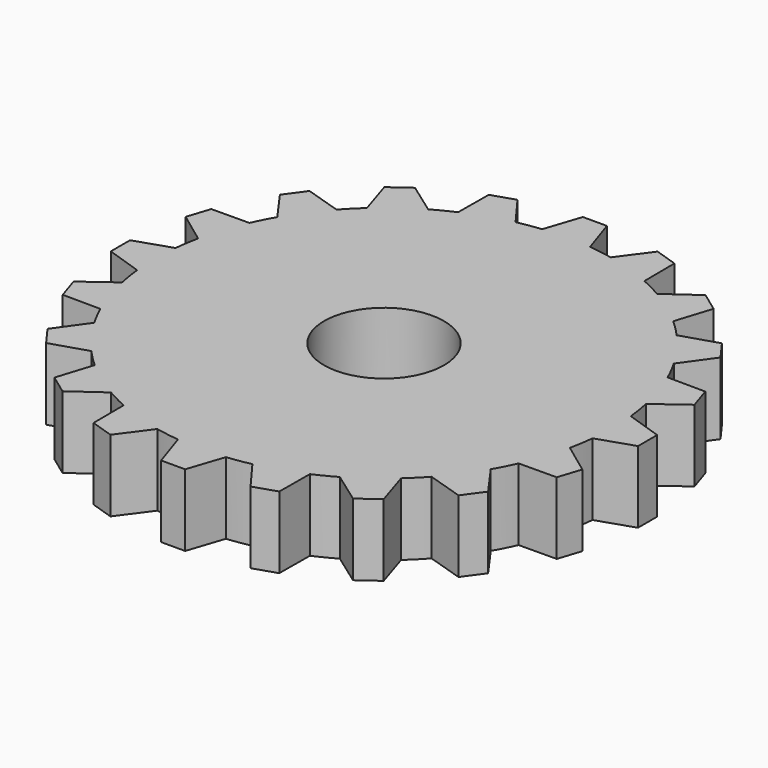
from build123d import *

# Parameters (mm, degrees)
F0_R     = 9.549297
F0_R_2   = 2.5
F2_DEPTH = 3
F3_COUNT = 20
F3_ANGLE = 342


with BuildPart() as f2:
    # F0 (on Top) + F1 (on face) → F2 (new body)
    with BuildSketch(Plane.XY):
        Circle(F0_R)
        Circle(F0_R_2, mode=Mode.SUBTRACT)
    with BuildSketch(Plane.XY):
        with BuildLine():
            ThreePointArc((-1, 9.496792), (0, 9.549297), (1, 9.496792))
            Line((1, 9.496792), (0.5, 10.996792))
            Line((0.5, 10.996792), (-0.5, 10.996792))
            Line((-0.5, 10.996792), (-1, 9.496792))
        make_face()
    extrude(amount=F2_DEPTH)

    # F3: F2 ×20 about axis
    f3_axis = Axis((0, 0, 3), (0, 0, -1))


with BuildPart() as f2_1:
    add(f2.part)
    for i in range(1, F3_COUNT):
        add(f2.part.rotate(f3_axis, i * F3_ANGLE / (F3_COUNT - 1)))


solid = f2_1.part
